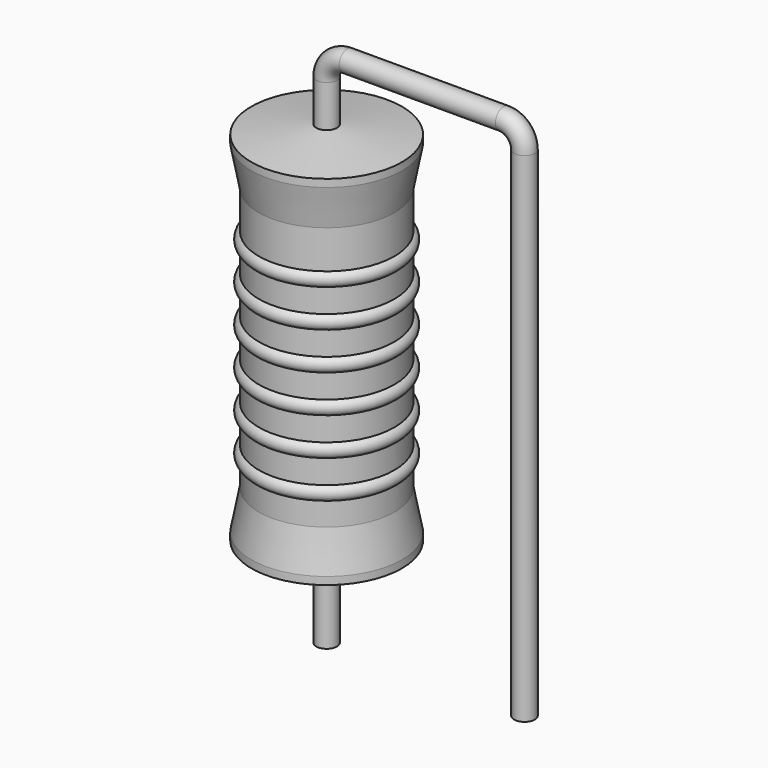
from build123d import *

# Parameters (mm, degrees)
SKETCH_R = 0.4


with BuildPart() as sweep_body:
    # Sweep: sweep along a path in Sketch001
    with BuildLine(Plane.XZ) as sweep_path:
        Line((0, -3), (0, 16.2))
        ThreePointArc((0, 16.2), (0.234312, 16.765683), (0.799993, 17))
        Line((0.799993, 17), (6.82, 17))
        ThreePointArc((6.82, 17), (7.385685, 16.765685), (7.62, 16.2))
        Line((7.62, 16.2), (7.62, -3))
    # Sketch → Sweep (sweep)
    with BuildSketch(Plane.XY.offset(-2)):
        Circle(SKETCH_R)
    sweep(path=sweep_path.line)


with BuildPart() as revolution:
    # Sketch002 → Revolution (revolve)
    with BuildSketch(Plane.XZ):
        Polygon((0, 0.1), (0, 14.6), (0.3, 14.6), (2.9, 14.2375), (2.9, 13.945), (2.61, 12.425), (2.61, 2.275), (2.9, 0.755), (2.9, 0.4625), (0.3, 0.1), align=None)
    revolve(axis=Axis((0, 0, 0), (0, 0, 1)))


with BuildPart() as revolution001:
    # Sketch003 → Revolution001 (revolve)
    with BuildSketch(Plane.XZ):
        with BuildLine():
            Line((2.32, 11.845), (2.32, 2.275))
            Line((2.32, 2.275), (2.494, 2.275))
            Line((2.494, 2.275), (2.494, 3.145))
            ThreePointArc((2.494, 3.145), (2.784, 3.435), (2.494, 3.725))
            Line((2.494, 3.725), (2.494, 4.595))
            ThreePointArc((2.494, 4.595), (2.784, 4.885), (2.494, 5.175))
            Line((2.494, 5.175), (2.494, 6.045))
            ThreePointArc((2.494, 6.045), (2.784, 6.335), (2.494, 6.625))
            Line((2.494, 6.625), (2.494, 7.495))
            ThreePointArc((2.494, 7.495), (2.784, 7.785), (2.494, 8.075))
            Line((2.494, 8.075), (2.494, 8.945))
            ThreePointArc((2.494, 8.945), (2.784, 9.235), (2.494, 9.525))
            Line((2.494, 9.525), (2.494, 10.395))
            ThreePointArc((2.494, 10.395), (2.784, 10.685), (2.494, 10.975))
            Line((2.494, 11.845), (2.494, 10.975))
            Line((2.32, 11.845), (2.494, 11.845))
        make_face()
    revolve(axis=Axis((0, 0, 0), (0, 0, 1)))


solid = Compound([sweep_body.part, revolution.part, revolution001.part])
